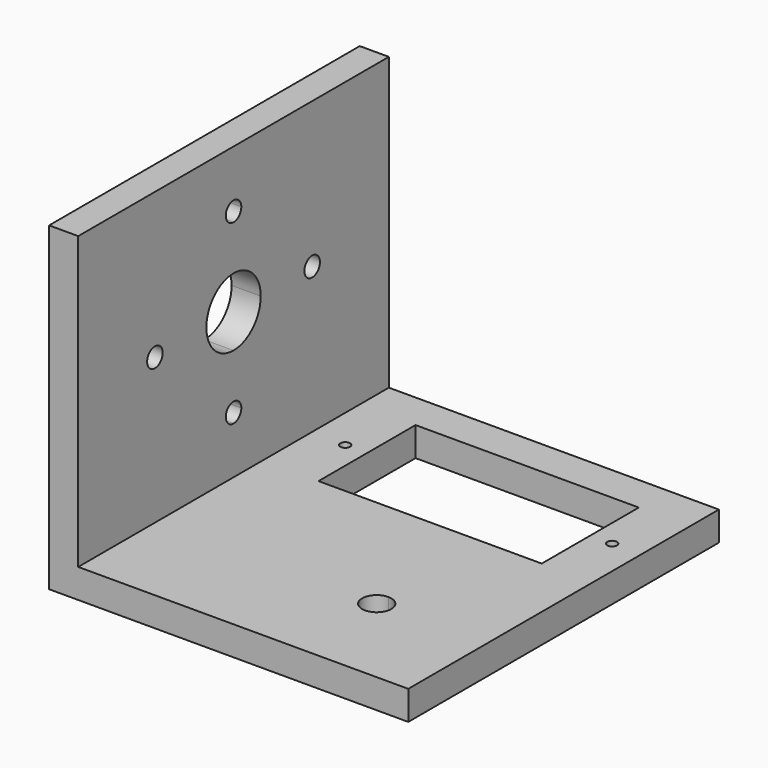
from build123d import *

# Parameters (mm, degrees)
F0_W     = 34
F0_H     = 40
F0_R     = 0.5
F0_W_2   = 3
F1_DEPTH = 3
F2_R     = 1
F3_DEPTH = 3


with BuildPart() as f1:
    # F0 (on Top) → F1 (new body)
    with BuildSketch(Plane.XY):
        with Locations((20, 20)):
            Rectangle(F0_W, F0_H)
        with BuildLine():
            ThreePointArc((27.25, 10), (24.68934, 8.93934), (25.75, 11.5))
            ThreePointArc((25.75, 11.5), (26.81066, 11.06066), (27.25, 10))
        make_face(mode=Mode.SUBTRACT)
        with Locations((6.5, 30)):
            Circle(F0_R, mode=Mode.SUBTRACT)
        Polygon((8.75, 23.75), (8.75, 36.25), (31.75, 36.25), (31.75, 23.75), (25.75, 23.75), (14.75, 23.75), align=None, mode=Mode.SUBTRACT)
        with Locations((34, 30)):
            Circle(F0_R, mode=Mode.SUBTRACT)
        with Locations((1.5, 20)):
            Rectangle(F0_W_2, F0_H)
    extrude(amount=F1_DEPTH)

    # F2 (on Right) → F3 (join)
    with BuildSketch(Plane.YZ):
        Polygon((0, 3), (0, 0), (20, 0), (40, 0), (40, 30), (40, 33), (34, 33), (0, 33), align=None)
        with BuildLine():
            ThreePointArc((21, 8.875), (20.707107, 8.167893), (20, 7.875))
            ThreePointArc((20, 7.875), (19, 8.875), (20, 9.875))
            ThreePointArc((20, 9.875), (20.707107, 9.582107), (21, 8.875))
        make_face(mode=Mode.SUBTRACT)
        with Locations((9.875, 18)):
            Circle(F2_R, mode=Mode.SUBTRACT)
        with BuildLine():
            ThreePointArc((23.5, 18), (22.474874, 15.525126), (20, 14.5))
            ThreePointArc((20, 14.5), (17.525126, 15.525126), (16.5, 18))
            ThreePointArc((16.5, 18), (17.525126, 20.474874), (20, 21.5))
            ThreePointArc((20, 21.5), (22.474874, 20.474874), (23.5, 18))
        make_face(mode=Mode.SUBTRACT)
        with BuildLine():
            ThreePointArc((31.125, 18), (30.125, 17), (29.125, 18))
            ThreePointArc((29.125, 18), (30.125, 19), (31.125, 18))
        make_face(mode=Mode.SUBTRACT)
        with BuildLine():
            ThreePointArc((21, 27.125), (20.707107, 26.417893), (20, 26.125))
            ThreePointArc((20, 26.125), (19.292893, 27.832107), (21, 27.125))
        make_face(mode=Mode.SUBTRACT)
    extrude(amount=F3_DEPTH)


solid = f1.part
